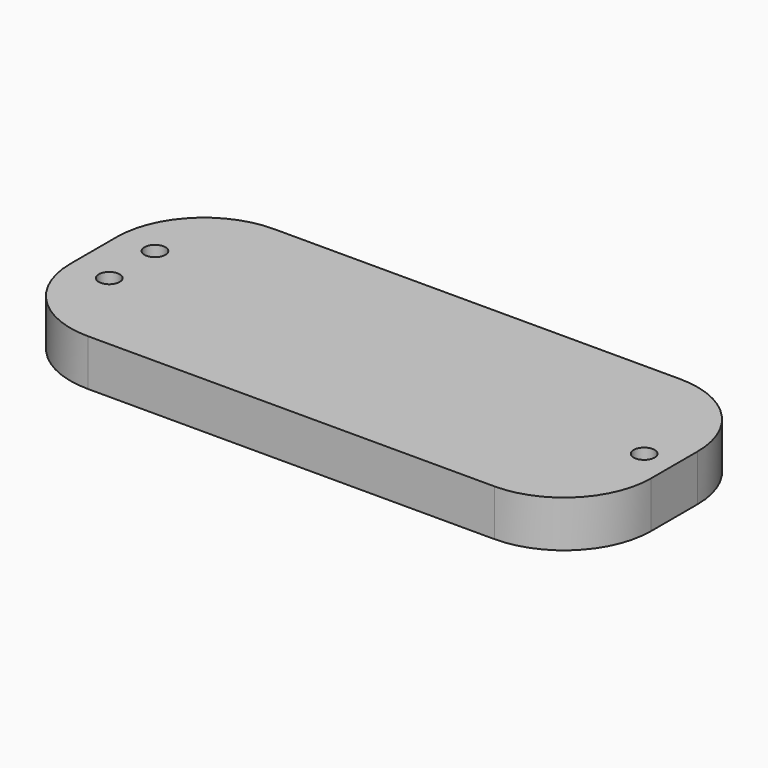
from build123d import *

# Parameters (mm, degrees)
F1_DEPTH = 4
F2_R     = 1.8
F4_DEPTH = 8
F3_R     = 1.8
F5_DEPTH = 8


with BuildPart() as f1:
    # F0 (on Top) → F1 (new body, symmetric)
    with BuildSketch(Plane.XY):
        with BuildLine():
            ThreePointArc((50, 5), (45.606602, 15.606602), (35, 20))
            Line((35, 20), (-35, 20))
            ThreePointArc((-35, 20), (-45.606602, 15.606602), (-50, 5))
            Line((-50, 5), (-50, -5))
            ThreePointArc((-50, -5), (-45.606602, -15.606602), (-35, -20))
            Line((-35, -20), (35, -20))
            ThreePointArc((35, -20), (45.606602, -15.606602), (50, -5))
            Line((50, -5), (50, 5))
        make_face()
    extrude(amount=F1_DEPTH, both=True)

    # F2 (on face) → F4 (cut)
    with BuildSketch(Plane(origin=(0, 0, -4), x_dir=(1, 0, 0), z_dir=(0, 0, -1))):
        with Locations((-43.311954, 5)):
            Circle(F2_R)
        with Locations((-43.436911, -5)):
            Circle(F2_R)
    extrude(amount=-F4_DEPTH, mode=Mode.SUBTRACT)

    # F3 (on face) → F5 (cut)
    with BuildSketch(Plane(origin=(0, 0, -4), x_dir=(1, 0, 0), z_dir=(0, 0, -1))):
        with Locations((44.796437, 0)):
            Circle(F3_R)
    extrude(amount=-F5_DEPTH, mode=Mode.SUBTRACT)


solid = f1.part
